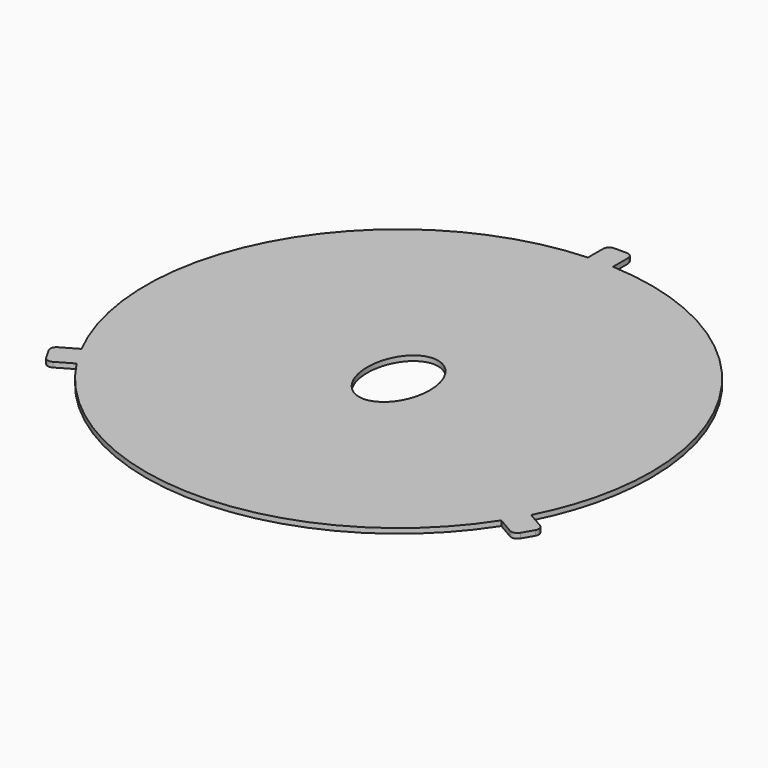
from build123d import *

# Parameters (mm, degrees)
F1_DEPTH = 1.016
F2_DEPTH = 1.0170001
F3_R     = 1.27


with BuildPart() as f1:
    # F0 (on Top) → F1 (new body, symmetric)
    with BuildSketch(Plane.XY):
        with BuildLine():
            ThreePointArc((45.6495498851, -23.422840547), (49.8733293931, -12.0483143738), (51.308, 0))
            ThreePointArc((51.308, 0), (37.1674130388, 35.370811017), (2.54, 51.2450901453))
            Line((2.54, 51.2450901453), (-2.54, 51.2450901453))
            ThreePointArc((-2.54, 51.2450901453), (-44.4340314174, 25.654), (-45.6495498851, -23.422840547))
            Line((-45.6495498851, -23.422840547), (-43.1095498851, -27.8222495983))
            ThreePointArc((-43.1095498851, -27.8222495983), (0, -51.308), (43.1095498851, -27.8222495983))
            Line((43.1095498851, -27.8222495983), (45.6495498851, -23.422840547))
        make_face()
        with BuildLine():
            add(Edge.make_bspline(
                [(0, -8.89), (10.9985226281, -8.89), (5.499261314, 4.445), (0, 17.78), (-5.499261314, 4.445), (-10.9985226281, -8.89), (0, -8.89)],
                knots=[0, 0, 0, 2.0943951024, 2.0943951024, 4.1887902048, 4.1887902048, 6.2831853072, 6.2831853072, 6.2831853072], degree=2, weights=[1, 0.5, 1, 0.5, 1, 0.5, 1]))
        make_face(mode=Mode.SUBTRACT)
        with BuildLine():
            Line((-2.54, 51.2450901453), (2.54, 51.2450901453))
            ThreePointArc((2.54, 51.2450901453), (0, 51.308), (-2.54, 51.2450901453))
        make_face()
        with BuildLine():
            ThreePointArc((-2.54, 51.2450901453), (0, 51.308), (2.54, 51.2450901453))
            Line((2.54, 51.2450901453), (2.54, 56.3250901453))
            Line((2.54, 56.3250901453), (-2.54, 56.3250901453))
            Line((-2.54, 56.3250901453), (-2.54, 51.2450901453))
        make_face()
        with BuildLine():
            Line((50.0489589363, -25.962840547), (45.6495498851, -23.422840547))
            ThreePointArc((45.6495498851, -23.422840547), (44.4340314174, -25.654), (43.1095498851, -27.8222495983))
            Line((43.1095498851, -27.8222495983), (47.5089589363, -30.3622495983))
            Line((47.5089589363, -30.3622495983), (50.0489589363, -25.962840547))
        make_face()
        with BuildLine():
            ThreePointArc((43.1095498851, -27.8222495983), (44.4340314174, -25.654), (45.6495498851, -23.422840547))
            Line((45.6495498851, -23.422840547), (43.1095498851, -27.8222495983))
        make_face()
        with BuildLine():
            Line((-43.1095498851, -27.8222495983), (-45.6495498851, -23.422840547))
            ThreePointArc((-45.6495498851, -23.422840547), (-44.4340314174, -25.654), (-43.1095498851, -27.8222495983))
        make_face()
        with BuildLine():
            ThreePointArc((-43.1095498851, -27.8222495983), (-44.4340314174, -25.654), (-45.6495498851, -23.422840547))
            Line((-45.6495498851, -23.422840547), (-50.0489589363, -25.962840547))
            Line((-50.0489589363, -25.962840547), (-47.5089589363, -30.3622495983))
            Line((-47.5089589363, -30.3622495983), (-43.1095498851, -27.8222495983))
        make_face()
    extrude(amount=F1_DEPTH, both=True)

    # F0 (on Top) → F2 (cut, through all)
    with BuildSketch(Plane.XY):
        with BuildLine():
            ThreePointArc((45.6495498851, -23.422840547), (49.8733293931, -12.0483143738), (51.308, 0))
            ThreePointArc((51.308, 0), (37.1674130388, 35.370811017), (2.54, 51.2450901453))
            Line((2.54, 51.2450901453), (-2.54, 51.2450901453))
            ThreePointArc((-2.54, 51.2450901453), (-44.4340314174, 25.654), (-45.6495498851, -23.422840547))
            Line((-45.6495498851, -23.422840547), (-43.1095498851, -27.8222495983))
            ThreePointArc((-43.1095498851, -27.8222495983), (0, -51.308), (43.1095498851, -27.8222495983))
            Line((43.1095498851, -27.8222495983), (45.6495498851, -23.422840547))
        make_face()
        with BuildLine():
            add(Edge.make_bspline(
                [(0, -8.89), (10.9985226281, -8.89), (5.499261314, 4.445), (0, 17.78), (-5.499261314, 4.445), (-10.9985226281, -8.89), (0, -8.89)],
                knots=[0, 0, 0, 2.0943951024, 2.0943951024, 4.1887902048, 4.1887902048, 6.2831853072, 6.2831853072, 6.2831853072], degree=2, weights=[1, 0.5, 1, 0.5, 1, 0.5, 1]))
        make_face(mode=Mode.SUBTRACT)
        with BuildLine():
            Line((-2.54, 51.2450901453), (2.54, 51.2450901453))
            ThreePointArc((2.54, 51.2450901453), (0, 51.308), (-2.54, 51.2450901453))
        make_face()
        with BuildLine():
            ThreePointArc((-2.54, 51.2450901453), (0, 51.308), (2.54, 51.2450901453))
            Line((2.54, 51.2450901453), (2.54, 56.3250901453))
            Line((2.54, 56.3250901453), (-2.54, 56.3250901453))
            Line((-2.54, 56.3250901453), (-2.54, 51.2450901453))
        make_face()
        with BuildLine():
            Line((50.0489589363, -25.962840547), (45.6495498851, -23.422840547))
            ThreePointArc((45.6495498851, -23.422840547), (44.4340314174, -25.654), (43.1095498851, -27.8222495983))
            Line((43.1095498851, -27.8222495983), (47.5089589363, -30.3622495983))
            Line((47.5089589363, -30.3622495983), (50.0489589363, -25.962840547))
        make_face()
        with BuildLine():
            ThreePointArc((43.1095498851, -27.8222495983), (44.4340314174, -25.654), (45.6495498851, -23.422840547))
            Line((45.6495498851, -23.422840547), (43.1095498851, -27.8222495983))
        make_face()
        with BuildLine():
            Line((-43.1095498851, -27.8222495983), (-45.6495498851, -23.422840547))
            ThreePointArc((-45.6495498851, -23.422840547), (-44.4340314174, -25.654), (-43.1095498851, -27.8222495983))
        make_face()
        with BuildLine():
            ThreePointArc((-43.1095498851, -27.8222495983), (-44.4340314174, -25.654), (-45.6495498851, -23.422840547))
            Line((-45.6495498851, -23.422840547), (-50.0489589363, -25.962840547))
            Line((-50.0489589363, -25.962840547), (-47.5089589363, -30.3622495983))
            Line((-47.5089589363, -30.3622495983), (-43.1095498851, -27.8222495983))
        make_face()
    extrude(amount=-F2_DEPTH, mode=Mode.SUBTRACT)

    # F3
    f3_edges = [f1.edges().sort_by_distance(p)[0] for p in [
        (-50.048959, -25.962841, 0.508),
        (-47.508959, -30.36225, 0.508),
        (2.54, 56.32509, 0.508),
        (-2.54, 56.32509, 0.508),
        (50.048959, -25.962841, 0.508),
        (47.508959, -30.36225, 0.508),
    ]]
    fillet(f3_edges, radius=F3_R)


solid = f1.part
